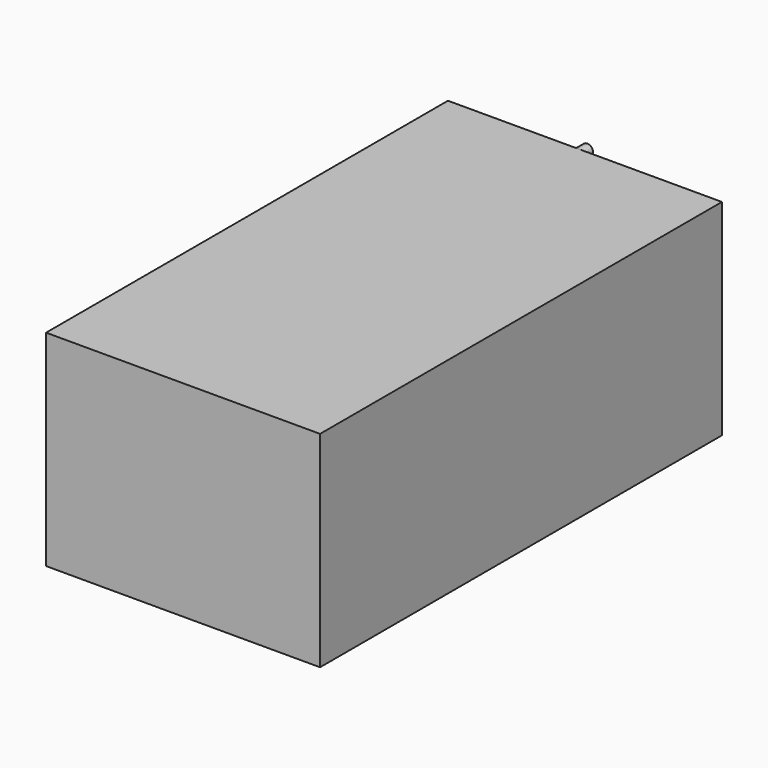
from build123d import *

# Parameters (mm, degrees)
F0_W     = 304.8
F0_H     = 558.8
F1_DEPTH = 228.6
F2_R     = 6.35
F3_DEPTH = 25.4
F4_R     = 6.35
F5_DEPTH = 12.7


with BuildPart() as f1:
    # F0 (on Top) → F1 (new body)
    with BuildSketch(Plane.XY):
        with Locations((-152.4, 279.4)):
            Rectangle(F0_W, F0_H)
    extrude(amount=F1_DEPTH)

    # F2 (on face) → F3 (join)
    with BuildSketch(Plane(origin=(-304.8, 0, 0), x_dir=(0, -1, 0), z_dir=(-1, 0, 0))):
        with Locations((-524.486303, 6.35)):
            Circle(F2_R)
    extrude(amount=F3_DEPTH)


with BuildPart() as f5:
    # F4 (on face) → F5 (new body)
    with BuildSketch(Plane(origin=(0, 558.8, 0), x_dir=(-1, 0, 0), z_dir=(0, 1, 0))):
        with Locations((159.855023, 222.25)):
            Circle(F4_R)
    extrude(amount=F5_DEPTH)


solid = Compound([f1.part, f5.part])
